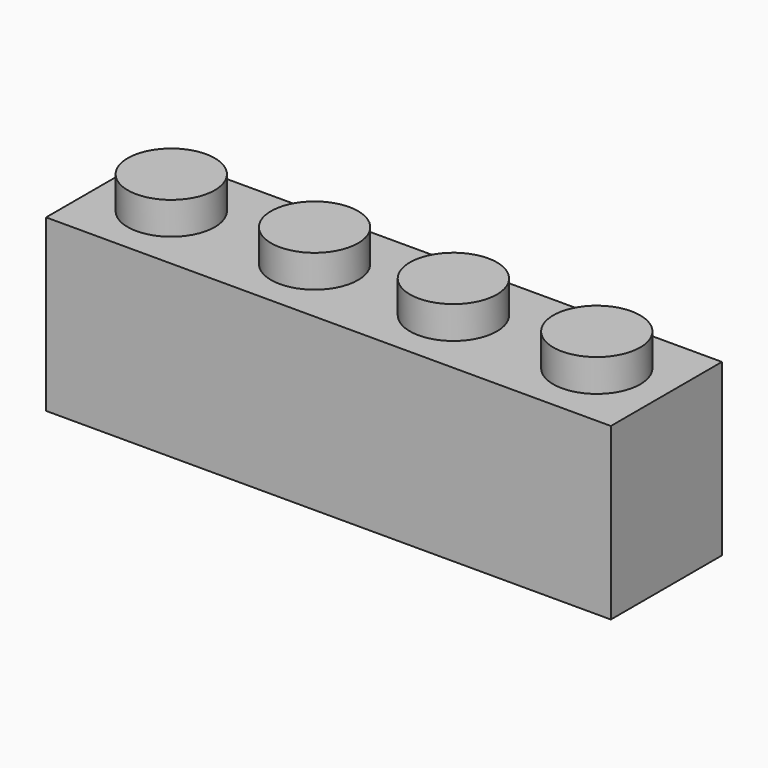
from build123d import *

# Parameters (mm, degrees)
F0_W     = 31.8262
F0_H     = 7.8232
F1_DEPTH = 9.6012
F3_R     = 2.4511
F4_DEPTH = 1.8288
F5_W     = 28.9814
F5_H     = 4.826
F6_DEPTH = 8.382
F7_R     = 1.4478
F8_DEPTH = 8.382


with BuildPart() as f1:
    # F0 (on Top) → F1 (new body)
    with BuildSketch(Plane.XY):
        Rectangle(F0_W, F0_H)
    extrude(amount=F1_DEPTH)

    # F3 (on face) → F4 (join)
    with BuildSketch(Plane.XY.offset(9.6012)):
        with Locations((11.9888, 0)):
            Circle(F3_R)
        with Locations((3.9116, 0)):
            Circle(F3_R)
        with Locations((-3.9116, 0)):
            Circle(F3_R)
        with Locations((-11.9888, 0)):
            Circle(F3_R)
    extrude(amount=F4_DEPTH)

    # F5 (on face) → F6 (cut)
    with BuildSketch(Plane(origin=(0, 0, 0), x_dir=(1, 0, 0), z_dir=(0, 0, -1))):
        Rectangle(F5_W, F5_H)
    extrude(amount=-F6_DEPTH, mode=Mode.SUBTRACT)

    # F7 (on face) → F8 (join)
    with BuildSketch(Plane(origin=(0, 0, 8.382), x_dir=(1, 0, 0), z_dir=(0, 0, -1))):
        with Locations((-8.1915, 0)):
            Circle(F7_R)
        Circle(F7_R)
        with Locations((8.1915, 0)):
            Circle(F7_R)
    extrude(amount=F8_DEPTH)


solid = f1.part
